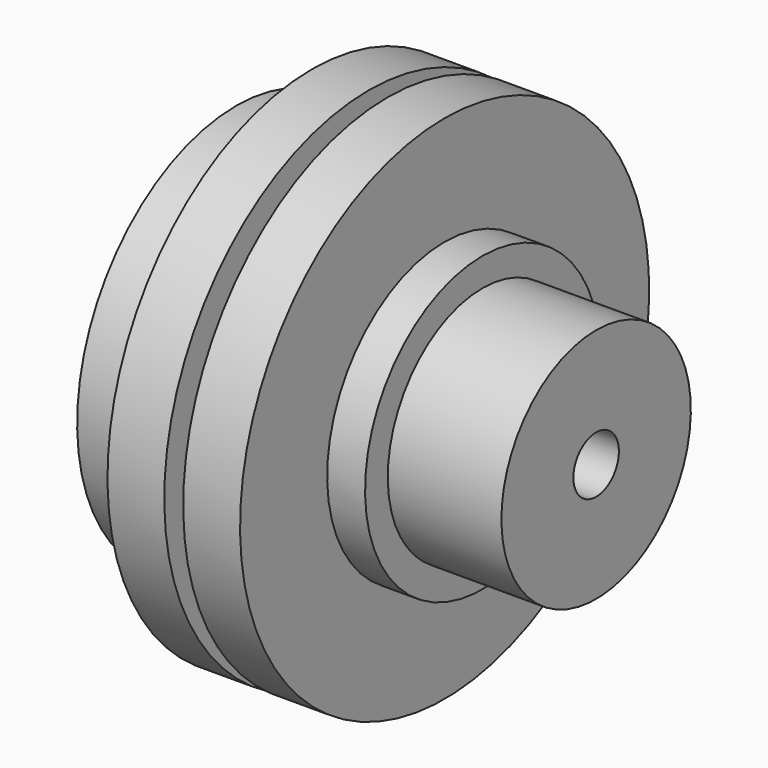
from build123d import *

# Parameters (mm, degrees)
F2_R     = 3
F3_DEPTH = 31.001


with BuildPart() as f1:
    # F0 (on Front) → F1 (revolve)
    with BuildSketch(Plane.XZ):
        Polygon((-31, 11), (-31, 0), (0, 0), (0, 12.5), (-12, 12.5), (-12, 15.5), (-16, 15.5), (-16, 27), (-22, 27), (-22, 20), (-24, 20), (-24, 27), (-30, 27), (-30, 21), (-38, 21), (-38, 11), align=None)
    revolve(axis=Axis((-15.5, 0, 0), (-1, 0, 0)))

    # F2 (on face) → F3 (cut, through all)
    with BuildSketch(Plane(origin=(-31, 0, 0), x_dir=(0, -1, 0), z_dir=(-1, 0, 0))):
        Circle(F2_R)
    extrude(amount=-F3_DEPTH, mode=Mode.SUBTRACT)


solid = f1.part
